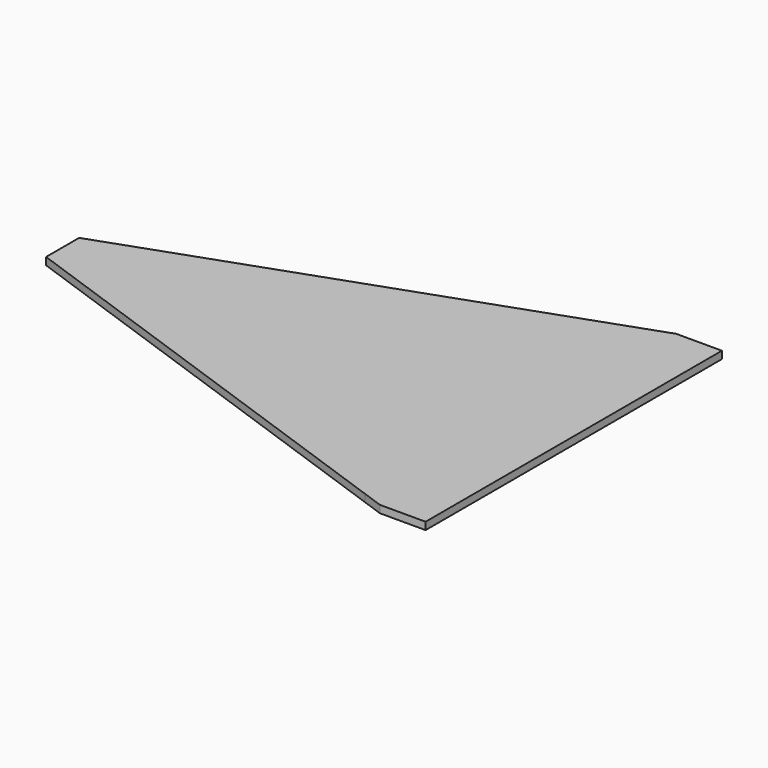
from build123d import *

# Parameters (mm, degrees)
F1_DEPTH = 12.7


with BuildPart() as f1:
    # F0 (on Top) → F1 (new body)
    with BuildSketch(Plane.XY):
        Polygon((-876.3, 317.5), (-114.3, 317.5), (-114.3, 622.3), (-876.3, 352.892316), align=None)
        Polygon((-876.3, 282.107684), (-114.3, 12.7), (-114.3, 317.5), (-876.3, 317.5), align=None)
        Polygon((-78.378976, 0), (0, 0), (0, 635), (-78.378976, 635), (-114.3, 622.3), (-114.3, 317.5), (-114.3, 12.7), align=None)
    extrude(amount=F1_DEPTH)


solid = f1.part
